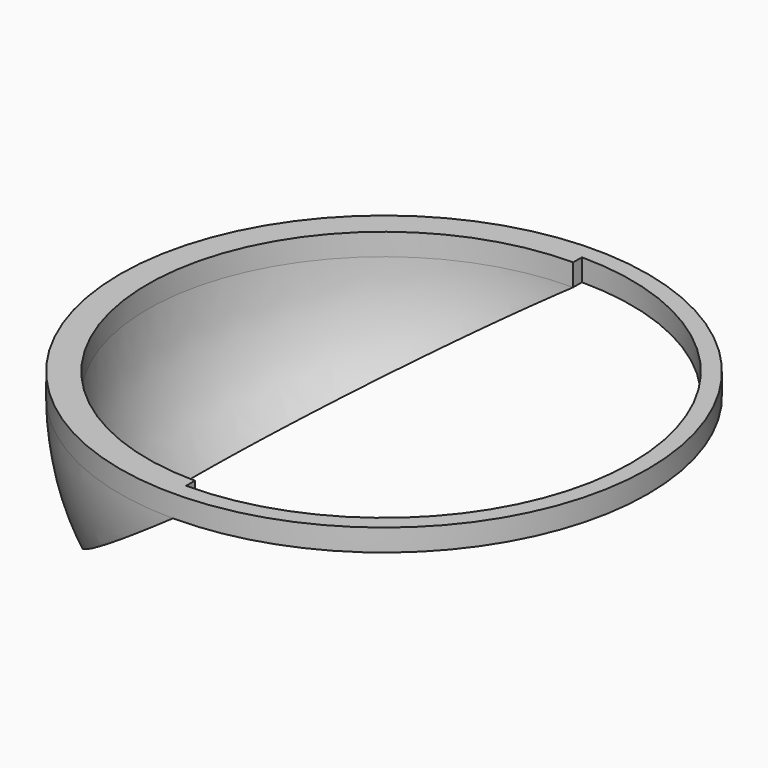
from build123d import *

# Parameters (mm, degrees)
F0_R     = 24
F0_R_2   = 22.5
F1_DEPTH = 2
F3_ANGLE = 35
F4_DEPTH = 2


with BuildPart() as f1:
    # F0 (on Top) → F1 (new body)
    with BuildSketch(Plane.XY):
        Circle(F0_R)
        Circle(F0_R_2, mode=Mode.SUBTRACT)
    extrude(amount=F1_DEPTH)

    # F2 (on Top) → F3 (revolve)
    with BuildSketch(Plane.XY):
        with BuildLine():
            Line((0, 21.5), (0, 24))
            ThreePointArc((0, 24), (-24, 0), (0, -24))
            Line((0, -24), (0, -21.5))
            ThreePointArc((0, -21.5), (-21.5, 0), (0, 21.5))
        make_face()
    revolve(axis=Axis((0, 0, 0), (0, -1, 0)), revolution_arc=F3_ANGLE)

    # F2 (on Top) → F4 (join)
    with BuildSketch(Plane.XY):
        with BuildLine():
            Line((0, 21.5), (0, 24))
            ThreePointArc((0, 24), (-24, 0), (0, -24))
            Line((0, -24), (0, -21.5))
            ThreePointArc((0, -21.5), (-21.5, 0), (0, 21.5))
        make_face()
    extrude(amount=F4_DEPTH)


solid = f1.part
